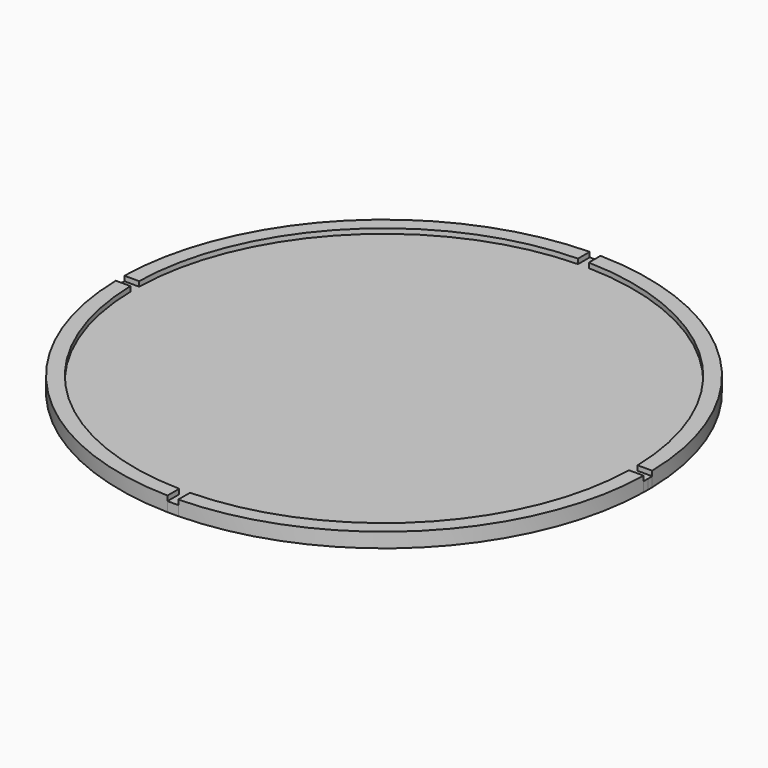
from build123d import *

# Parameters (mm, degrees)
F1_DEPTH = 1.5
F2_DEPTH = 1


with BuildPart() as f1:
    # F0 (on Top) → F1 (new body)
    with BuildSketch(Plane.XY):
        with BuildLine():
            ThreePointArc((-26.994386, -0.55058), (-19.091883, -19.091883), (-0.55058, -26.994386))
            Line((-0.55058, -26.994386), (-0.55058, -25.494055))
            ThreePointArc((-0.55058, -25.494055), (-18.031223, -18.031223), (-25.494055, -0.55058))
            Line((-25.494055, -0.55058), (-26.994386, -0.55058))
        make_face()
        with BuildLine():
            ThreePointArc((0.55058, -26.994386), (19.091883, -19.091883), (26.994386, -0.55058))
            Line((26.994386, -0.55058), (25.494055, -0.55058))
            ThreePointArc((25.494055, -0.55058), (18.031223, -18.031223), (0.55058, -25.494055))
            Line((0.55058, -25.494055), (0.55058, -26.994386))
        make_face()
        with BuildLine():
            Line((25.494055, 0.55058), (26.994386, 0.55058))
            ThreePointArc((26.994386, 0.55058), (19.091883, 19.091883), (0.55058, 26.994386))
            Line((0.55058, 26.994386), (0.55058, 25.494055))
            ThreePointArc((0.55058, 25.494055), (18.031223, 18.031223), (25.494055, 0.55058))
        make_face()
        with BuildLine():
            Line((-0.55058, 25.494055), (-0.55058, 26.994386))
            ThreePointArc((-0.55058, 26.994386), (-19.091883, 19.091883), (-26.994386, 0.55058))
            Line((-26.994386, 0.55058), (-25.494055, 0.55058))
            ThreePointArc((-25.494055, 0.55058), (-18.031223, 18.031223), (-0.55058, 25.494055))
        make_face()
    extrude(amount=F1_DEPTH)


with BuildPart() as f2:
    # F0 (on Top) → F2 (new body)
    with BuildSketch(Plane.XY):
        with BuildLine():
            ThreePointArc((-0.55058, -26.994386), (0, -27), (0.55058, -26.994386))
            Line((0.55058, -26.994386), (0.55058, -25.494055))
            ThreePointArc((0.55058, -25.494055), (0, -25.5), (-0.55058, -25.494055))
            Line((-0.55058, -25.494055), (-0.55058, -26.994386))
        make_face()
        with BuildLine():
            ThreePointArc((25.5, 0), (25.498514, 0.275306), (25.494055, 0.55058))
            ThreePointArc((25.494055, 0.55058), (18.031223, 18.031223), (0.55058, 25.494055))
            ThreePointArc((0.55058, 25.494055), (0, 25.5), (-0.55058, 25.494055))
            ThreePointArc((-0.55058, 25.494055), (-18.031223, 18.031223), (-25.494055, 0.55058))
            ThreePointArc((-25.494055, 0.55058), (-25.5, 0), (-25.494055, -0.55058))
            ThreePointArc((-25.494055, -0.55058), (-18.031223, -18.031223), (-0.55058, -25.494055))
            ThreePointArc((-0.55058, -25.494055), (0, -25.5), (0.55058, -25.494055))
            ThreePointArc((0.55058, -25.494055), (18.031223, -18.031223), (25.494055, -0.55058))
            ThreePointArc((25.494055, -0.55058), (25.498514, -0.275306), (25.5, 0))
        make_face()
        with BuildLine():
            ThreePointArc((26.994386, -0.55058), (26.998596, -0.275304), (27, 0))
            ThreePointArc((27, 0), (26.998596, 0.275304), (26.994386, 0.55058))
            Line((26.994386, 0.55058), (25.494055, 0.55058))
            ThreePointArc((25.494055, 0.55058), (25.498514, 0.275306), (25.5, 0))
            ThreePointArc((25.5, 0), (25.498514, -0.275306), (25.494055, -0.55058))
            Line((25.494055, -0.55058), (26.994386, -0.55058))
        make_face()
        with BuildLine():
            Line((0.55058, 25.494055), (0.55058, 26.994386))
            ThreePointArc((0.55058, 26.994386), (0, 27), (-0.55058, 26.994386))
            Line((-0.55058, 26.994386), (-0.55058, 25.494055))
            ThreePointArc((-0.55058, 25.494055), (0, 25.5), (0.55058, 25.494055))
        make_face()
        with BuildLine():
            Line((-25.494055, 0.55058), (-26.994386, 0.55058))
            ThreePointArc((-26.994386, 0.55058), (-27, 0), (-26.994386, -0.55058))
            Line((-26.994386, -0.55058), (-25.494055, -0.55058))
            ThreePointArc((-25.494055, -0.55058), (-25.5, 0), (-25.494055, 0.55058))
        make_face()
    extrude(amount=F2_DEPTH)


solid = Compound([f1.part, f2.part])
